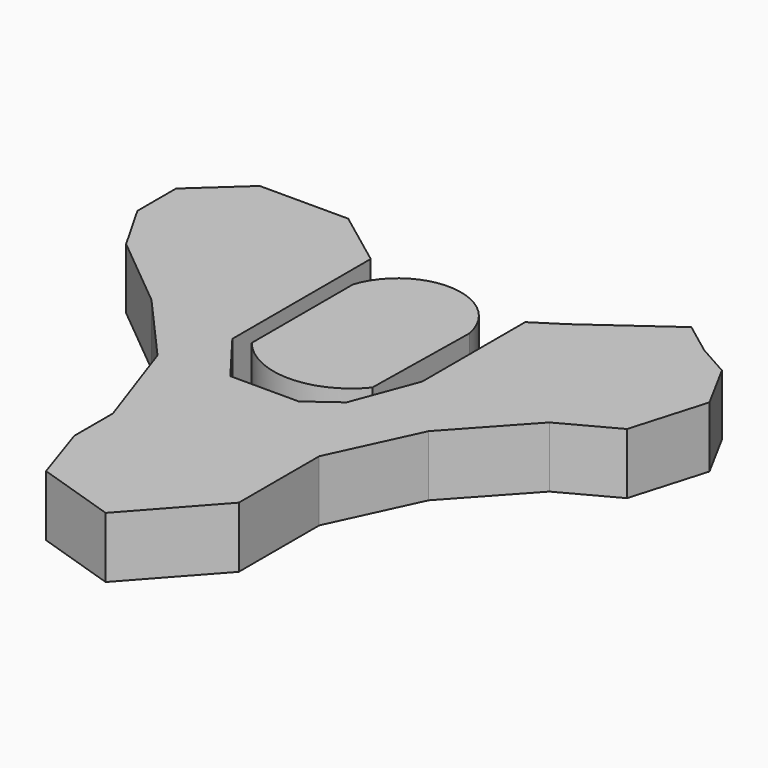
from build123d import *

# Parameters (mm, degrees)
F1_DEPTH = 8


with BuildPart() as f1:
    # F0 (on Top) → F1 (new body)
    with BuildSketch(Plane.XY):
        Polygon((-10.702601, -9.645554), (-10.702601, 13.080957), (-18.101931, 18.630454), (-24.972735, 18.630454), (-29.729448, 18.630454), (-36.071729, 12.816695), (-36.071729, 6.474413), (-32.372065, 0), (-22.594379, -8.059983), (-14.402266, -17.309144), (-9.909816, -30.257972), (-9.909816, -36.600254), (-7.267199, -44.528104), (3.303273, -47.963507), (12.552432, -37.657302), (12.552432, -24.444213), (17.837668, -13.080957), (26.294043, -3.831795), (33.429112, 0), (36.335994, 9.909815), (32.90059, 16.252099), (28.672399, 18.630454), (24.444211, 21.801595), (14.138005, 14.402266), (10.438339, 12.02391), (10.438339, -4.888842), (7.267199, -13.345218), (3.303273, -16.252099), (-5.681627, -16.252099), align=None)
        with BuildLine():
            Line((7.267199, -9.11703), (7.53146, 6.474413))
            ThreePointArc((7.53146, 6.474413), (-0.117271, 13.274531), (-8.588507, 7.53146))
            Line((-8.588507, 7.53146), (-8.588507, -9.11703))
            ThreePointArc((-8.588507, -9.11703), (-0.660654, -12.900263), (7.267199, -9.11703))
        make_face()
    extrude(amount=F1_DEPTH)


solid = f1.part
